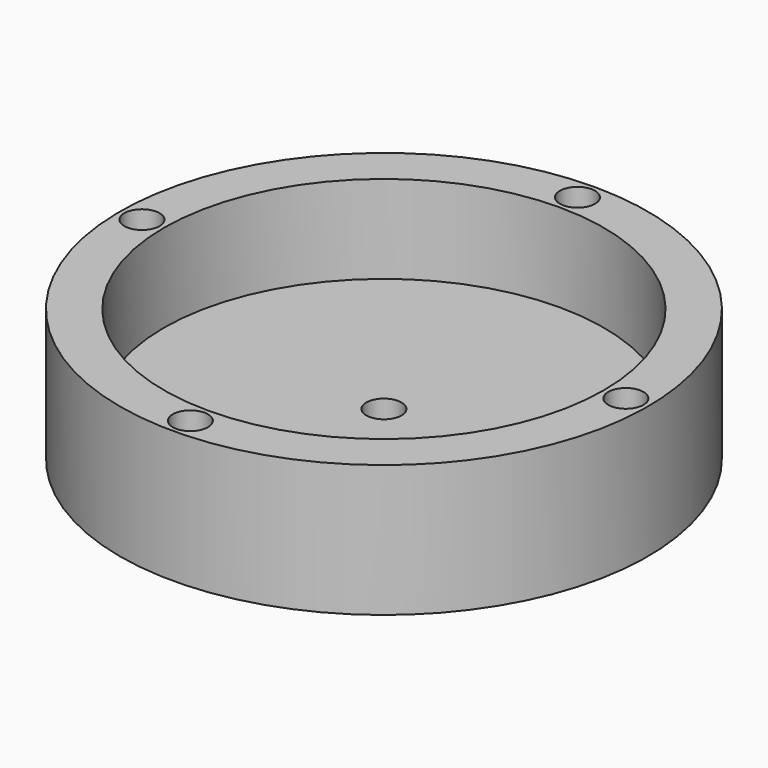
from build123d import *

# Parameters (mm, degrees)
F2_R     = 2.54
F3_DEPTH = 25.4
F4_R     = 2.54
F5_DEPTH = 25.4


with BuildPart() as f1:
    # F0 (on Right) → F1 (revolve)
    with BuildSketch(Plane.YZ):
        Polygon((0, 6.35), (0, 0), (38.1, 0), (38.1, 19.05), (31.75, 19.05), (31.75, 6.35), align=None)
    revolve(axis=Axis((0, 0, 3.175), (0, 0, -1)))

    # F2 (on face) → F3 (cut)
    with BuildSketch(Plane.XY.offset(6.35)):
        Circle(F2_R)
    extrude(amount=-F3_DEPTH, mode=Mode.SUBTRACT)

    # F4 (on face) → F5 (cut)
    with BuildSketch(Plane.XY.offset(19.05)):
        with Locations((0, 34.925)):
            Circle(F4_R)
        with Locations((34.925, 0)):
            Circle(F4_R)
        with Locations((-34.925, 0)):
            Circle(F4_R)
        with Locations((0, -34.925)):
            Circle(F4_R)
    extrude(amount=-F5_DEPTH, mode=Mode.SUBTRACT)


solid = f1.part
